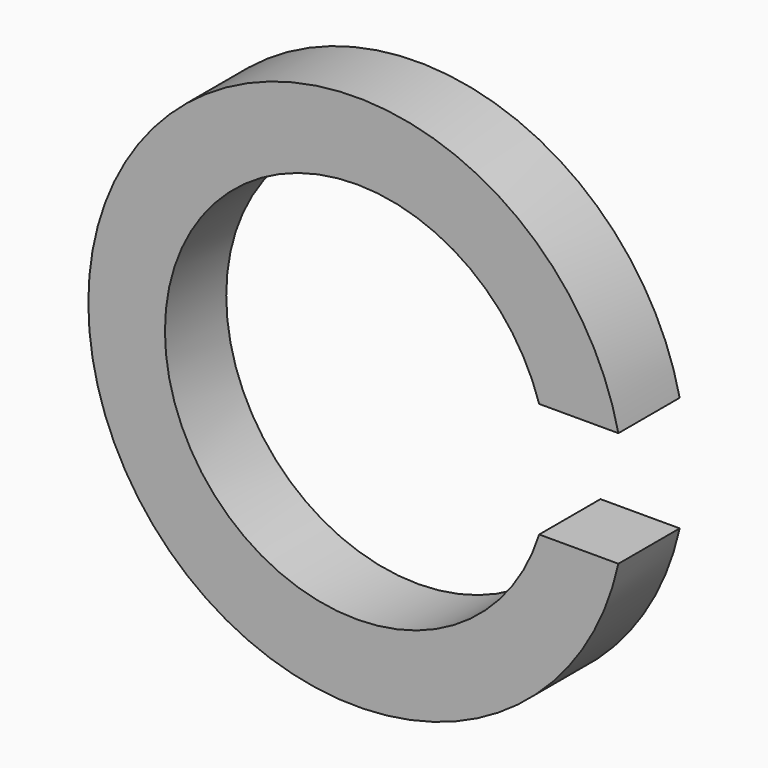
from build123d import *

# Parameters (mm, degrees)
F0_W     = 10
F0_H     = 10
F3_DEPTH = 7.5


with BuildPart() as f1:
    # F0 (on Top) → F1 (revolve)
    with BuildSketch(Plane.XY):
        with Locations((-30, 0)):
            Rectangle(F0_W, F0_H)
    revolve(axis=Axis((0, -0.910494, 0), (0, -1, 0)))

    # F2 (on Top) → F3 (cut, symmetric)
    with BuildSketch(Plane.XY):
        Polygon((39.921038, 8.129815), (23.297383, 8.008474), (23.297383, -9.585902), (39.921038, -9.585902), align=None)
    extrude(amount=F3_DEPTH, both=True, mode=Mode.SUBTRACT)


solid = f1.part
